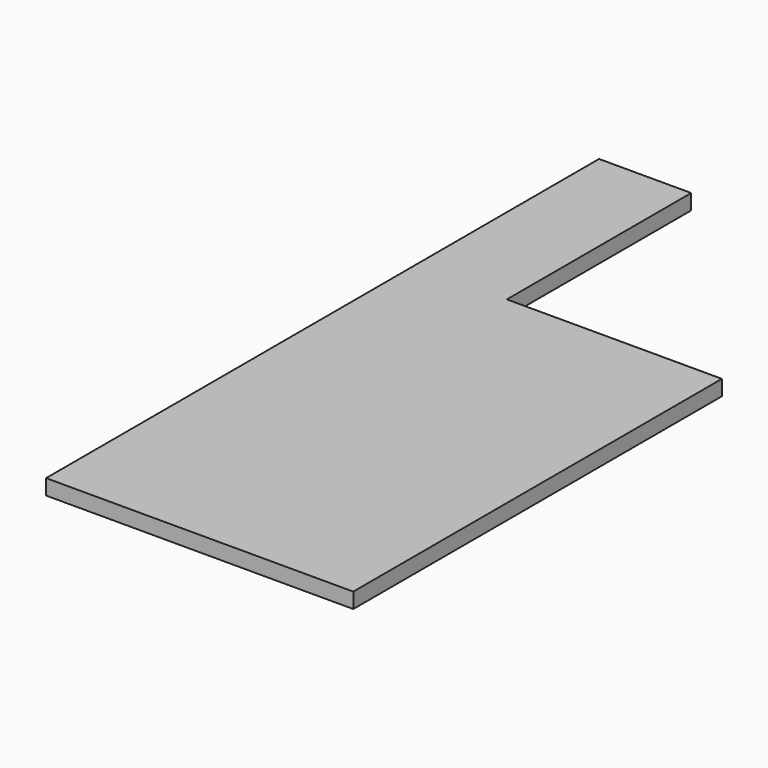
from build123d import *

# Parameters (mm, degrees)
BOX007_W           = 10
BOX007_H           = 15
BOX007_DEPTH       = 14
BOX006_W           = 1
BOX006_H           = 45
BOX006_DEPTH       = 20
CUT006_PITCH_ANGLE = 90


with BuildPart() as cubo005:
    # Box007 → Box007 (new body)
    with BuildSketch(Plane(origin=(-4, -227, 60), x_dir=(1, 0, 0), z_dir=(0, 0, 1))):
        with Locations((5, 7.5)):
            Rectangle(BOX007_W, BOX007_H)
    extrude(amount=BOX007_DEPTH)


with BuildPart() as cut006:
    # Box006 → Box006 (new body)
    with BuildSketch(Plane(origin=(0, -257, 54), x_dir=(1, 0, 0), z_dir=(0, 0, 1))):
        with Locations((0.5, 22.5)):
            Rectangle(BOX006_W, BOX006_H)
    extrude(amount=BOX006_DEPTH)

    # Cut006: cut Cubo005
    add(cubo005.part, mode=Mode.SUBTRACT)


with BuildPart() as cut006_1:
    # Cut006 pitch: moved
    add(cut006.part.rotate(Axis((0, 0, 0), (0, 1, 0)), CUT006_PITCH_ANGLE))


with BuildPart() as cut006_2:
    # Cut006 placement: moved
    add(cut006_1.part.moved(Location((359, 67, 326))))


solid = cut006_2.part
